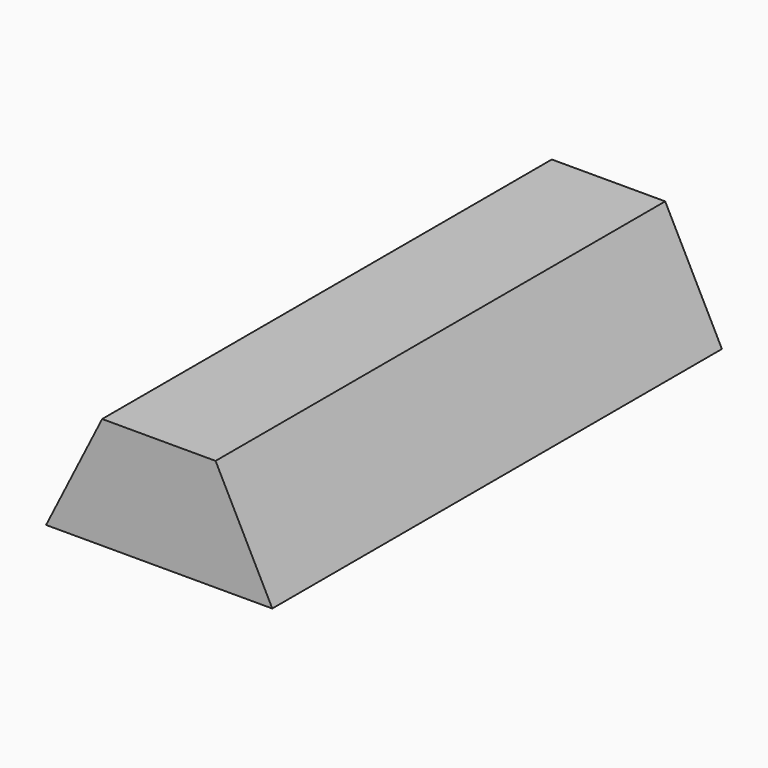
from build123d import *

# Parameters (mm, degrees)
PAD_DEPTH = 100


with BuildPart() as part:
    # Sketch → Pad (new body)
    with BuildSketch(Plane.XZ):
        Polygon((-10.182722, 9.918731), (9.995807, 9.918731), (20.085073, -9.927186), (-20.161116, -9.927186), align=None)
    extrude(amount=PAD_DEPTH)


solid = part.part
